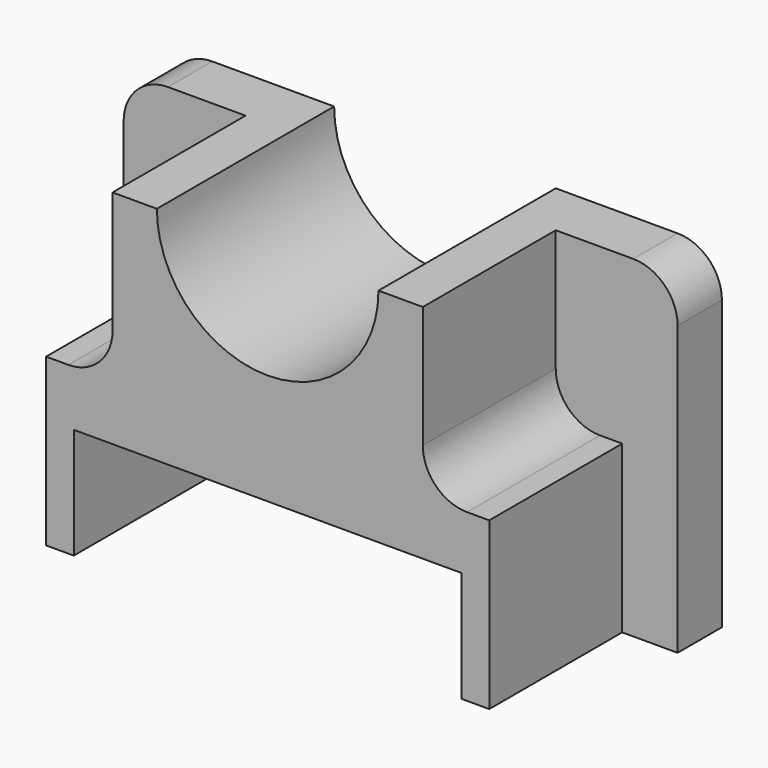
from build123d import *

# Parameters (mm, degrees)
F0_W      = 63.5
F0_H      = 38.1
F1_DEPTH  = 25.4
F3_DEPTH  = 38.1
F4_W      = 44.45
F4_H      = 12.7
F5_DEPTH  = 19.05
F6_W      = 6.35
F6_H      = 38.1
F7_DEPTH  = 19.05
F8_W      = 6.35
F8_H      = 38.1
F9_DEPTH  = 19.05
F10_R     = 5.08
F11_W     = 7.62
F11_H     = 19.05
F12_DEPTH = 19.05
F13_R     = 5.08
F14_W     = 7.62
F14_H     = 19.05
F15_DEPTH = 19.05
F16_R     = 5.08


with BuildPart() as f1:
    # F0 (on Front) → F1 (new body)
    with BuildSketch(Plane.XZ):
        Rectangle(F0_W, F0_H)
    extrude(amount=F1_DEPTH)

    # F2 (on face) → F3 (cut)
    with BuildSketch(Plane.XZ.offset(25.4)):
        with BuildLine():
            Line((12.7, 19.05), (-12.7, 19.05))
            ThreePointArc((-12.7, 19.05), (0, 6.35), (12.7, 19.05))
        make_face()
    extrude(amount=-F3_DEPTH, mode=Mode.SUBTRACT)

    # F4 (on face) → F5 (cut)
    with BuildSketch(Plane.XZ.offset(25.4)):
        with Locations((0, -12.7)):
            Rectangle(F4_W, F4_H)
    extrude(amount=-F5_DEPTH, mode=Mode.SUBTRACT)

    # F6 (on face) → F7 (cut)
    with BuildSketch(Plane.XZ.offset(25.4)):
        with Locations((-28.575, 0)):
            Rectangle(F6_W, F6_H)
    extrude(amount=-F7_DEPTH, mode=Mode.SUBTRACT)

    # F8 (on face) → F9 (cut)
    with BuildSketch(Plane.XZ.offset(25.4)):
        with Locations((28.575, 0)):
            Rectangle(F8_W, F8_H)
    extrude(amount=-F9_DEPTH, mode=Mode.SUBTRACT)

    # F10
    f10_edges = [f1.edges().sort_by_distance(p)[0] for p in [
        (31.75, -3.175, 19.05),
        (-31.75, -3.175, 19.05),
    ]]
    fillet(f10_edges, radius=F10_R)

    # F11 (on face) → F12 (cut)
    with BuildSketch(Plane.XZ.offset(25.4)):
        with Locations((-21.59, 9.525)):
            Rectangle(F11_W, F11_H)
    extrude(amount=-F12_DEPTH, mode=Mode.SUBTRACT)

    # F13
    f13_edges = [f1.edges().sort_by_distance(p)[0] for p in [
        (-17.78, -15.875, 0),
    ]]
    fillet(f13_edges, radius=F13_R)

    # F14 (on face) → F15 (cut)
    with BuildSketch(Plane.XZ.offset(25.4)):
        with Locations((21.59, 9.525)):
            Rectangle(F14_W, F14_H)
    extrude(amount=-F15_DEPTH, mode=Mode.SUBTRACT)

    # F16
    f16_edges = [f1.edges().sort_by_distance(p)[0] for p in [
        (17.78, -15.875, 0),
    ]]
    fillet(f16_edges, radius=F16_R)


solid = f1.part
